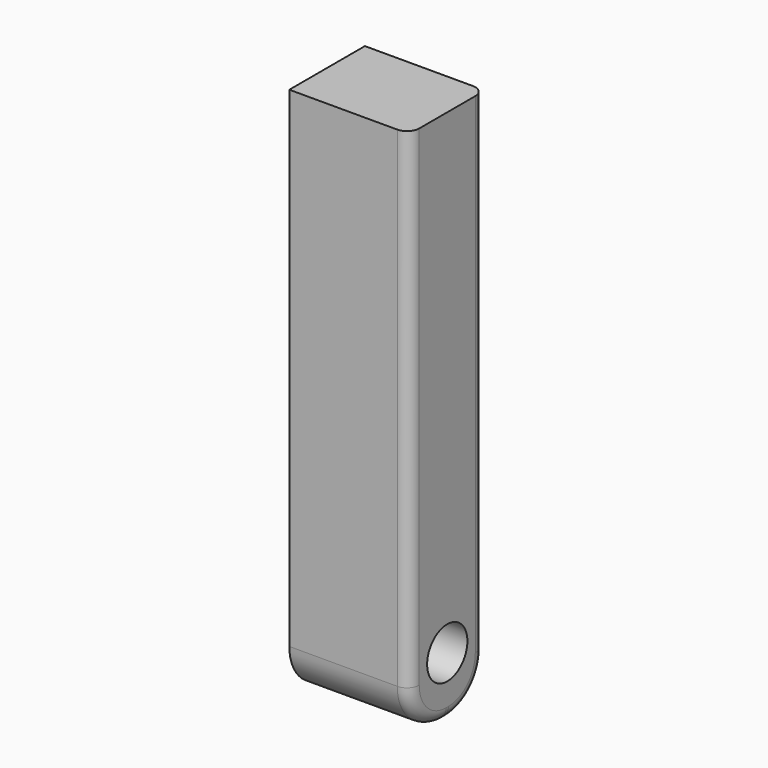
from build123d import *

# Parameters (mm, degrees)
F0_R     = 2.0955
F1_DEPTH = 10
F2_R     = 1.016


with BuildPart() as f1:
    # F0 (on Right) → F1 (new body)
    with BuildSketch(Plane.YZ):
        with BuildLine():
            Line((-4.052595, 0), (-3.81, 0))
            ThreePointArc((-3.81, 0), (-1.115923, 1.115923), (0, 3.81))
            Line((0, 3.81), (0, 44.6))
            Line((0, 44.6), (-7.862595, 44.6))
            Line((-7.862595, 44.6), (-7.862595, 3.81))
            ThreePointArc((-7.862595, 3.81), (-6.746672, 1.115923), (-4.052595, 0))
        make_face()
        with Locations((-3.931298, 5)):
            Circle(F0_R, mode=Mode.SUBTRACT)
    extrude(amount=F1_DEPTH)

    # F2
    f2_edges = [f1.edges().sort_by_distance(p)[0] for p in [
        (10, 0, 24.205),
    ]]
    fillet(f2_edges, radius=F2_R)


solid = f1.part
